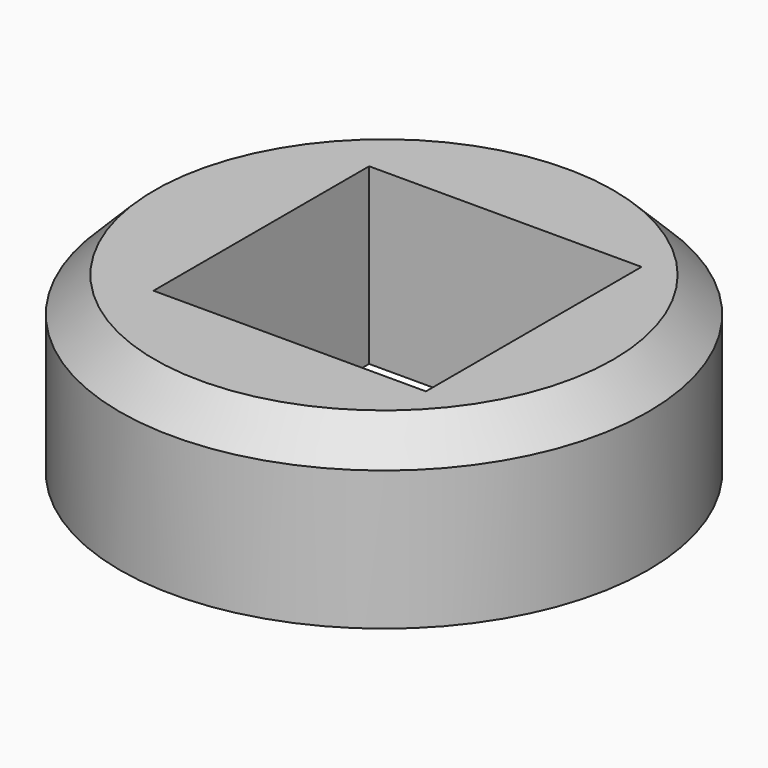
from build123d import *

# Parameters (mm, degrees)
F0_R     = 37.945444
F1_DEPTH = 25
F2_W     = 39.141135
F2_H     = 38.724022
F3_DEPTH = 25
F4_SIZE  = 5


with BuildPart() as f1:
    # F0 (on Top) → F1 (new body)
    with BuildSketch(Plane.XY):
        Circle(F0_R)
    extrude(amount=F1_DEPTH)

    # F2 (on face) → F3 (cut)
    with BuildSketch(Plane.XY.offset(25)):
        with Locations((1.78278, 0.198509)):
            Rectangle(F2_W, F2_H)
    extrude(amount=-F3_DEPTH, mode=Mode.SUBTRACT)

    # F4
    f4_edges = [f1.edges().sort_by_distance(p)[0] for p in [
        (-37.945444, 0, 25),
    ]]
    chamfer(f4_edges, length=F4_SIZE)


solid = f1.part
